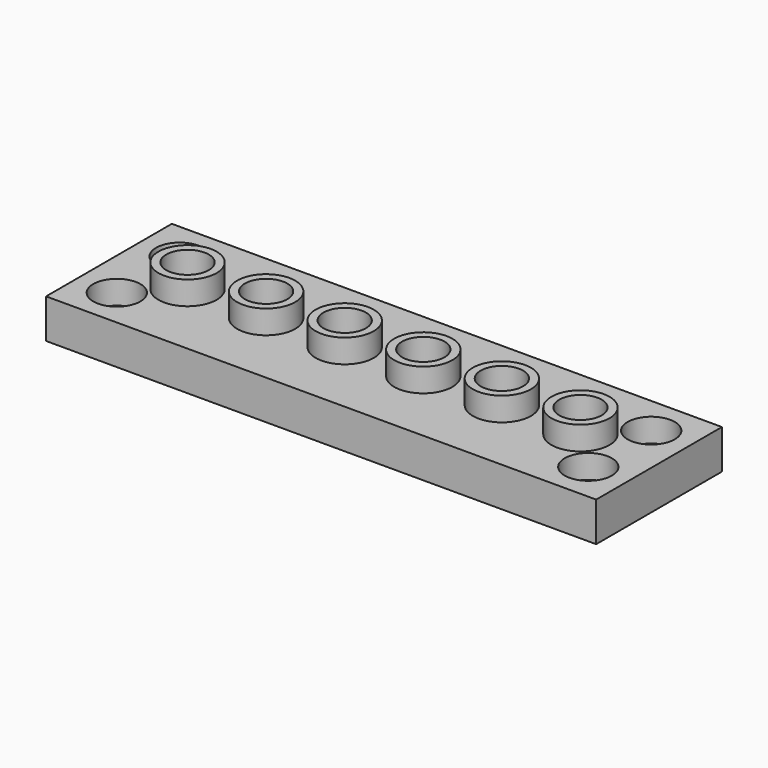
from build123d import *

# Parameters (mm, degrees)
PAD_DEPTH       = 5
SKETCH001_R     = 1.8
POCKET_DEPTH    = 5
SKETCH002_R     = 3
POCKET001_DEPTH = 3
SKETCH003_R     = 1.8
POCKET002_DEPTH = 1.8
SKETCH004_R     = 3.7
SKETCH004_R_2   = 2.7
PAD001_DEPTH    = 3
POCKET003_DEPTH = 3


with BuildPart() as part:
    # Sketch → Pad (new body)
    with BuildSketch(Plane.XY):
        Polygon((0, 0), (0, 20), (18, 20), (52, 20), (70, 20), (70, 0), (52, 0), (18, 0), align=None)
    extrude(amount=PAD_DEPTH)

    # Sketch001 → Pocket (cut)
    with BuildSketch(Plane.XY.offset(5)):
        with Locations((5, 15)):
            Circle(SKETCH001_R)
        with Locations((65, 15)):
            Circle(SKETCH001_R)
        with Locations((65, 5)):
            Circle(SKETCH001_R)
        with Locations((5, 5)):
            Circle(SKETCH001_R)
    extrude(amount=-POCKET_DEPTH, mode=Mode.SUBTRACT)

    # Sketch002 → Pocket001 (cut)
    with BuildSketch(Plane.XY.offset(5)):
        with Locations((5, 15)):
            Circle(SKETCH002_R)
        with Locations((65, 15)):
            Circle(SKETCH002_R)
        with Locations((65, 5)):
            Circle(SKETCH002_R)
        with Locations((5, 5)):
            Circle(SKETCH002_R)
    extrude(amount=-POCKET001_DEPTH, mode=Mode.SUBTRACT)

    # Sketch003 → Pocket002 (cut)
    with BuildSketch(Plane.XY.offset(5)):
        with Locations((10, 10)):
            Circle(SKETCH003_R)
        with Locations((20, 10)):
            Circle(SKETCH003_R)
        with Locations((30, 10)):
            Circle(SKETCH003_R)
        with Locations((40, 10)):
            Circle(SKETCH003_R)
        with Locations((50, 10)):
            Circle(SKETCH003_R)
        with Locations((60, 10)):
            Circle(SKETCH003_R)
    extrude(amount=-POCKET002_DEPTH, mode=Mode.SUBTRACT)

    # Sketch004 → Pad001 (new body)
    with BuildSketch(Plane.XY.offset(5)):
        with Locations((10, 10)):
            Circle(SKETCH004_R)
        with Locations((10, 10)):
            Circle(SKETCH004_R_2, mode=Mode.SUBTRACT)
        with Locations((20, 10)):
            Circle(SKETCH004_R)
        with Locations((20, 10)):
            Circle(SKETCH004_R_2, mode=Mode.SUBTRACT)
        with Locations((30, 10)):
            Circle(SKETCH004_R)
        with Locations((30, 10)):
            Circle(SKETCH004_R_2, mode=Mode.SUBTRACT)
        with Locations((40, 10)):
            Circle(SKETCH004_R)
        with Locations((40, 10)):
            Circle(SKETCH004_R_2, mode=Mode.SUBTRACT)
        with Locations((50, 10)):
            Circle(SKETCH004_R)
        with Locations((50, 10)):
            Circle(SKETCH004_R_2, mode=Mode.SUBTRACT)
        with Locations((60, 10)):
            Circle(SKETCH004_R)
        with Locations((60, 10)):
            Circle(SKETCH004_R_2, mode=Mode.SUBTRACT)
    extrude(amount=PAD001_DEPTH)

    # Sketch005 → Pocket003 (cut)
    with BuildSketch(Plane(origin=(0, 0, 0), x_dir=(1, 0, 0), z_dir=(0, 0, -1))):
        Polygon((7, -11.732051), (7, -8.267949), (10, -6.535898), (13, -8.267949), (13, -11.732051), (10, -13.464102), align=None)
        Polygon((17, -11.732051), (17, -8.267949), (20, -6.535898), (23, -8.267949), (23, -11.732051), (20, -13.464102), align=None)
        Polygon((27, -11.732051), (27, -8.267949), (30, -6.535898), (33, -8.267949), (33, -11.732051), (30, -13.464102), align=None)
        Polygon((37, -11.732051), (37, -8.267949), (40, -6.535898), (43, -8.267949), (43, -11.732051), (40, -13.464102), align=None)
        Polygon((47, -11.732051), (47, -8.267949), (50, -6.535898), (53, -8.267949), (53, -11.732051), (50, -13.464102), align=None)
        Polygon((57, -11.732051), (57, -8.267949), (60, -6.535898), (63, -8.267949), (63, -11.732051), (60, -13.464102), align=None)
    extrude(amount=-POCKET003_DEPTH, mode=Mode.SUBTRACT)


solid = part.part
